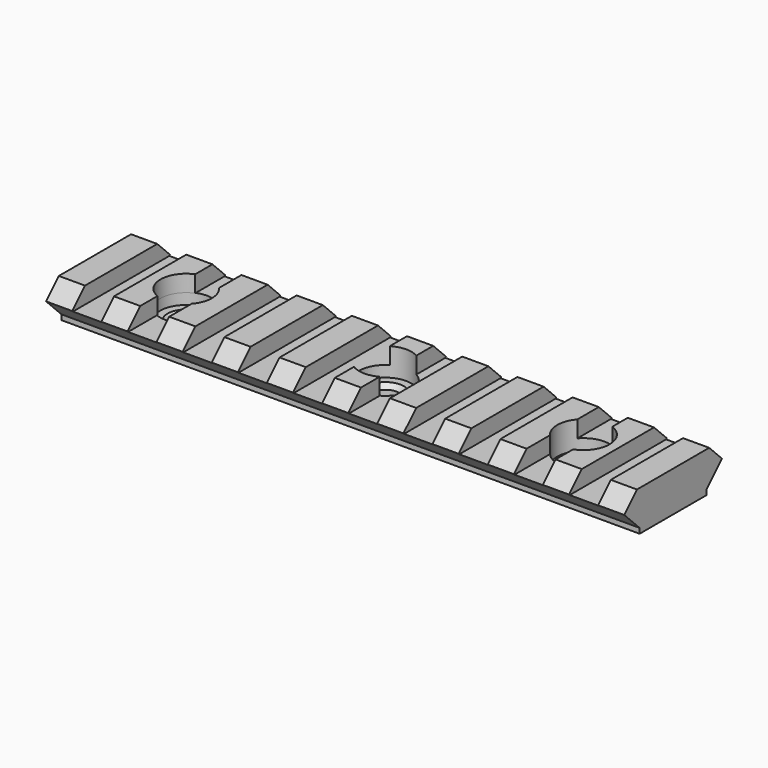
from build123d import *

# Parameters (mm, degrees)
F1_DEPTH  = 103.759
F2_W      = 5.207
F2_H      = 2.8575
F2_H_2    = 16.2052
F2_H_3    = 2.9408035447
F3_DEPTH  = 2.9972
F4_R      = 2.54
F5_DEPTH  = 12.7
F6_R      = 4.6
F7_DEPTH  = 25.4
F8_R      = 4.6
F9_DEPTH  = 25.4
F10_R     = 4.6
F11_DEPTH = 25.4
F13_DEPTH = 127
F14_R     = 4.699
F15_DEPTH = 2
F16_R     = 4.699
F17_DEPTH = 2
F18_DEPTH = 25.4
F19_R     = 4.699
F20_DEPTH = 2
F21_DEPTH = 25.4
F22_SIZE  = 0.8


with BuildPart() as f1:
    # F0 (on Right) → F1 (new body)
    with BuildSketch(Plane.YZ):
        Polygon((0, 1.524), (0, 0), (16.2052, 0), (16.2052, 1.524), (19.0627, 4.3815), (16.2052, 7.239), (0, 7.239), (-2.8575, 4.3815), align=None)
    extrude(amount=F1_DEPTH)

    # F2 (on face) → F3 (cut)
    with BuildSketch(Plane.XY.offset(7.239)):
        with Locations((7.3025, -1.42875)):
            Rectangle(F2_W, F2_H)
        Polygon((4.699, 16.2052), (4.699, 8.1026), (4.699, 0), (9.906, 0), (9.906, 16.2052), align=None)
        with Locations((7.3025, 17.63395)):
            Rectangle(F2_W, F2_H)
        with Locations((17.2085, 17.63395)):
            Rectangle(F2_W, F2_H)
        with Locations((17.2085, 8.1026)):
            Rectangle(F2_W, F2_H_2)
        with Locations((17.2085, -1.42875)):
            Rectangle(F2_W, F2_H)
        with Locations((27.1145, 17.63395)):
            Rectangle(F2_W, F2_H)
        with Locations((27.1145, 8.1026)):
            Rectangle(F2_W, F2_H_2)
        with Locations((27.1145, -1.42875)):
            Rectangle(F2_W, F2_H)
        with Locations((37.0205, 17.63395)):
            Rectangle(F2_W, F2_H)
        with Locations((37.0205, 8.1026)):
            Rectangle(F2_W, F2_H_2)
        with Locations((37.0205, -1.42875)):
            Rectangle(F2_W, F2_H)
        with Locations((46.9265, 17.63395)):
            Rectangle(F2_W, F2_H)
        with Locations((46.9265, 8.1026)):
            Rectangle(F2_W, F2_H_2)
        with Locations((46.9265, -1.42875)):
            Rectangle(F2_W, F2_H)
        with Locations((56.8325, 17.63395)):
            Rectangle(F2_W, F2_H)
        with Locations((56.8325, 8.1026)):
            Rectangle(F2_W, F2_H_2)
        with Locations((56.8325, -1.42875)):
            Rectangle(F2_W, F2_H)
        with Locations((66.7385, 17.63395)):
            Rectangle(F2_W, F2_H)
        with Locations((66.7385, 8.1026)):
            Rectangle(F2_W, F2_H_2)
        with Locations((66.7385, -1.42875)):
            Rectangle(F2_W, F2_H)
        with Locations((76.6445, 17.63395)):
            Rectangle(F2_W, F2_H)
        with Locations((76.6445, 8.1026)):
            Rectangle(F2_W, F2_H_2)
        with Locations((76.6445, -1.42875)):
            Rectangle(F2_W, F2_H)
        with Locations((86.5505, -1.42875)):
            Rectangle(F2_W, F2_H)
        with Locations((86.5505, 8.1026)):
            Rectangle(F2_W, F2_H_2)
        with Locations((86.5505, 17.63395)):
            Rectangle(F2_W, F2_H)
        with Locations((96.4565, 17.6756017723)):
            Rectangle(F2_W, F2_H_3)
        with Locations((96.4565, 8.1026)):
            Rectangle(F2_W, F2_H_2)
        with Locations((96.4565, -1.4704017723)):
            Rectangle(F2_W, F2_H_3)
    extrude(amount=-F3_DEPTH, mode=Mode.SUBTRACT)

    # F4 (on face) → F5 (cut, symmetric)
    with BuildSketch(Plane(origin=(0, 0, 0), x_dir=(1, 0, 0), z_dir=(0, 0, -1))):
        with Locations((87.503, -8.3177030837)):
            Circle(F4_R)
        with Locations((16.383, -8.1026)):
            Circle(F4_R)
        with Locations((51.943, -8.3177030837)):
            Circle(F4_R)
    extrude(amount=F5_DEPTH, both=True, mode=Mode.SUBTRACT)

    # F6 (on face) → F7 (cut)
    with BuildSketch(Plane.XY.offset(4.2418)):
        with Locations((16.383, 8.1026)):
            Circle(F6_R)
    extrude(amount=F7_DEPTH, mode=Mode.SUBTRACT)

    # F8 (on face) → F9 (cut)
    with BuildSketch(Plane.XY.offset(4.2418)):
        with Locations((87.503, 8.3177030837)):
            Circle(F8_R)
    extrude(amount=F9_DEPTH, mode=Mode.SUBTRACT)

    # F10 (on face) → F11 (cut)
    with BuildSketch(Plane.XY.offset(4.2418)):
        with Locations((51.943, 8.3177030837)):
            Circle(F10_R)
    extrude(amount=F11_DEPTH, mode=Mode.SUBTRACT)

    # F12 (on face) → F13 (cut)
    with BuildSketch(Plane.YZ.offset(103.759)):
        Polygon((0.6026, 0.9214), (-2.8575, 4.3815), (-2.8575, 0), (0.6026, 0), align=None)
        Polygon((19.0627, 0), (19.0627, 4.3815), (15.6026, 0.9214), (15.6026, 0), align=None)
    extrude(amount=-F13_DEPTH, mode=Mode.SUBTRACT)

    # F14 (on face) → F15 (cut)
    with BuildSketch(Plane.XY.offset(4.2418)):
        with Locations((16.383, 8.1026)):
            Circle(F14_R)
    extrude(amount=-F15_DEPTH, mode=Mode.SUBTRACT)

    # F16 (on face) → F17 (cut)
    with BuildSketch(Plane.XY.offset(4.2418)):
        with Locations((51.943, 8.3177030837)):
            Circle(F16_R)
    extrude(amount=-F17_DEPTH, mode=Mode.SUBTRACT)

    # F16 (on face) → F18 (cut)
    with BuildSketch(Plane.XY.offset(4.2418)):
        with Locations((51.943, 8.3177030837)):
            Circle(F16_R)
    extrude(amount=F18_DEPTH, mode=Mode.SUBTRACT)

    # F19 (on face) → F20 (cut)
    with BuildSketch(Plane.XY.offset(4.2418)):
        with Locations((87.503, 8.3177030837)):
            Circle(F19_R)
    extrude(amount=-F20_DEPTH, mode=Mode.SUBTRACT)

    # F19 (on face) → F21 (cut)
    with BuildSketch(Plane.XY.offset(4.2418)):
        with Locations((87.503, 8.3177030837)):
            Circle(F19_R)
    extrude(amount=F21_DEPTH, mode=Mode.SUBTRACT)

    # F22
    f22_edges = [f1.edges().sort_by_distance(p)[0] for p in [
        (84.963, 8.317703, 2.2418),
        (49.403, 8.317703, 2.2418),
        (13.843, 8.1026, 2.2418),
    ]]
    chamfer(f22_edges, length=F22_SIZE)


solid = f1.part
